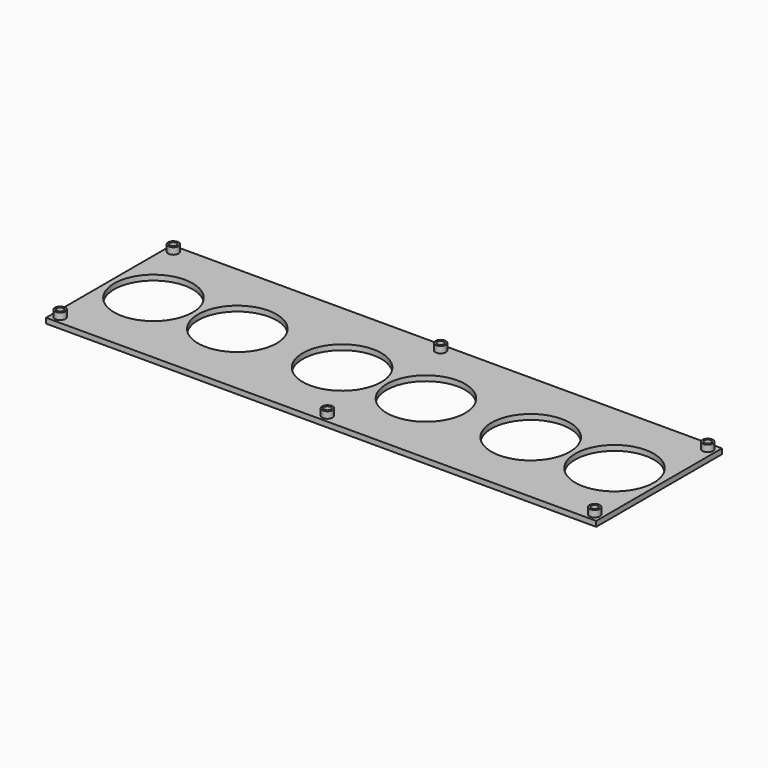
from build123d import *

# Parameters (mm, degrees)
F0_W      = 210
F0_H      = 60
F1_DEPTH  = 2
F2_R      = 15
F3_DEPTH  = 2
F4_R      = 2
F5_DEPTH  = 2.5
F6_R      = 1.3
F7_DEPTH  = 2
F8_R      = 1.3
F9_DEPTH  = 2
F10_R     = 1.3
F11_DEPTH = 2
F12_R     = 1.3
F13_DEPTH = 2
F14_R     = 1.3
F15_DEPTH = 2
F16_R     = 1.3
F17_DEPTH = 2


with BuildPart() as f1:
    # F0 (on Top) → F1 (new body)
    with BuildSketch(Plane.XY):
        Rectangle(F0_W, F0_H)
    extrude(amount=F1_DEPTH)

    # F2 (on face) → F3 (cut)
    with BuildSketch(Plane.XY.offset(2)):
        with Locations((-88, 0)):
            Circle(F2_R)
        with Locations((-56, 0)):
            Circle(F2_R)
        with Locations((-16, 0)):
            Circle(F2_R)
        with Locations((16, 0)):
            Circle(F2_R)
        with Locations((56, 0)):
            Circle(F2_R)
        with Locations((88, 0)):
            Circle(F2_R)
    extrude(amount=-F3_DEPTH, mode=Mode.SUBTRACT)

    # F4 (on face) → F5 (join)
    with BuildSketch(Plane.XY.offset(2)):
        with Locations((-102, -27)):
            Circle(F4_R)
        with Locations((-102, 27)):
            Circle(F4_R)
        with Locations((102, -27)):
            Circle(F4_R)
        with Locations((102, 27)):
            Circle(F4_R)
        with Locations((0, 27)):
            Circle(F4_R)
        with Locations((0, -27)):
            Circle(F4_R)
    extrude(amount=F5_DEPTH)

    # F6 (on face) → F7 (cut)
    with BuildSketch(Plane.XY.offset(4.5)):
        with Locations((0, -27)):
            Circle(F6_R)
    extrude(amount=-F7_DEPTH, mode=Mode.SUBTRACT)

    # F8 (on face) → F9 (cut)
    with BuildSketch(Plane.XY.offset(4.5)):
        with Locations((-102, -27)):
            Circle(F8_R)
    extrude(amount=-F9_DEPTH, mode=Mode.SUBTRACT)

    # F10 (on face) → F11 (cut)
    with BuildSketch(Plane.XY.offset(4.5)):
        with Locations((-102, 27)):
            Circle(F10_R)
    extrude(amount=-F11_DEPTH, mode=Mode.SUBTRACT)

    # F12 (on face) → F13 (cut)
    with BuildSketch(Plane.XY.offset(4.5)):
        with Locations((0, 27)):
            Circle(F12_R)
    extrude(amount=-F13_DEPTH, mode=Mode.SUBTRACT)

    # F14 (on face) → F15 (cut)
    with BuildSketch(Plane.XY.offset(4.5)):
        with Locations((102, 27)):
            Circle(F14_R)
    extrude(amount=-F15_DEPTH, mode=Mode.SUBTRACT)

    # F16 (on face) → F17 (cut)
    with BuildSketch(Plane.XY.offset(4.5)):
        with Locations((102, -27)):
            Circle(F16_R)
    extrude(amount=-F17_DEPTH, mode=Mode.SUBTRACT)


solid = f1.part
